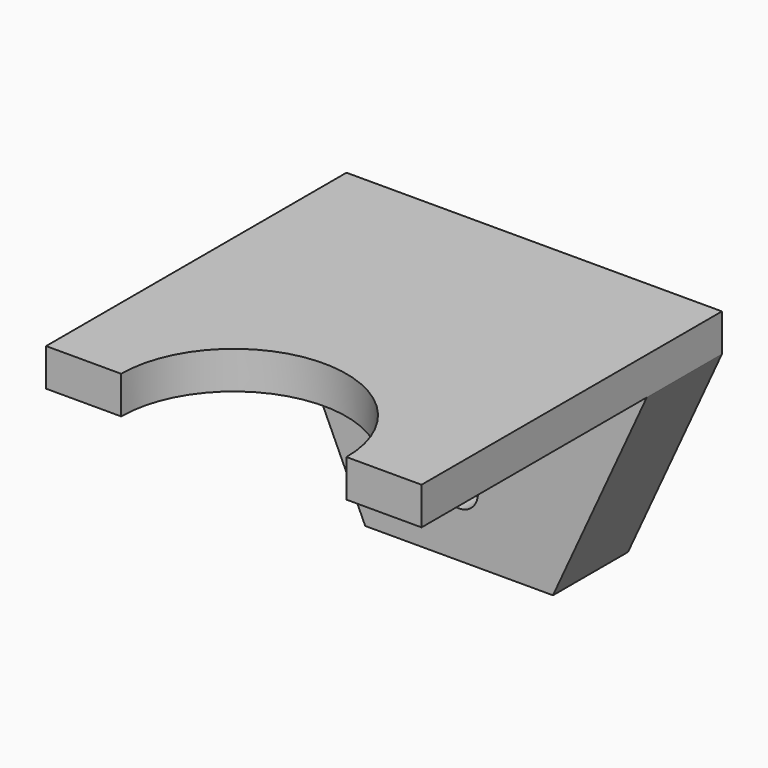
from build123d import *

# Parameters (mm, degrees)
F0_W     = 100
F0_H     = 10
F1_DEPTH = 100
F2_DEPTH = 25
F4_DEPTH = 25
F6_DEPTH = 25


with BuildPart() as f1:
    # F0 (on Front) → F1 (new body)
    with BuildSketch(Plane.XZ):
        with Locations((25, 59.543561)):
            Rectangle(F0_W, F0_H)
    extrude(amount=F1_DEPTH)

    # F0 (on Front) → F2 (join)
    with BuildSketch(Plane.XZ):
        Polygon((-25, 54.543561), (0, 0), (50, 0), (75, 54.543561), align=None)
    extrude(amount=F2_DEPTH)

    # F3 (on face) → F4 (cut)
    with BuildSketch(Plane(origin=(0, 0, 0), x_dir=(-1, 0, 0), z_dir=(0, 1, 0))):
        with BuildLine():
            Line((-20, 17.22778), (-20, 36.596932))
            ThreePointArc((-20, 36.596932), (-25, 41.596932), (-30, 36.596932))
            Line((-30, 36.596932), (-30, 17.22778))
            ThreePointArc((-30, 17.22778), (-25, 12.22778), (-20, 17.22778))
        make_face()
    extrude(amount=-F4_DEPTH, mode=Mode.SUBTRACT)

    # F5 (on face) → F6 (cut)
    with BuildSketch(Plane.XY.offset(64.543561)):
        with BuildLine():
            Line((-5, -100), (55, -100))
            ThreePointArc((55, -100), (25, -70), (-5, -100))
        make_face()
    extrude(amount=-F6_DEPTH, mode=Mode.SUBTRACT)


solid = f1.part
